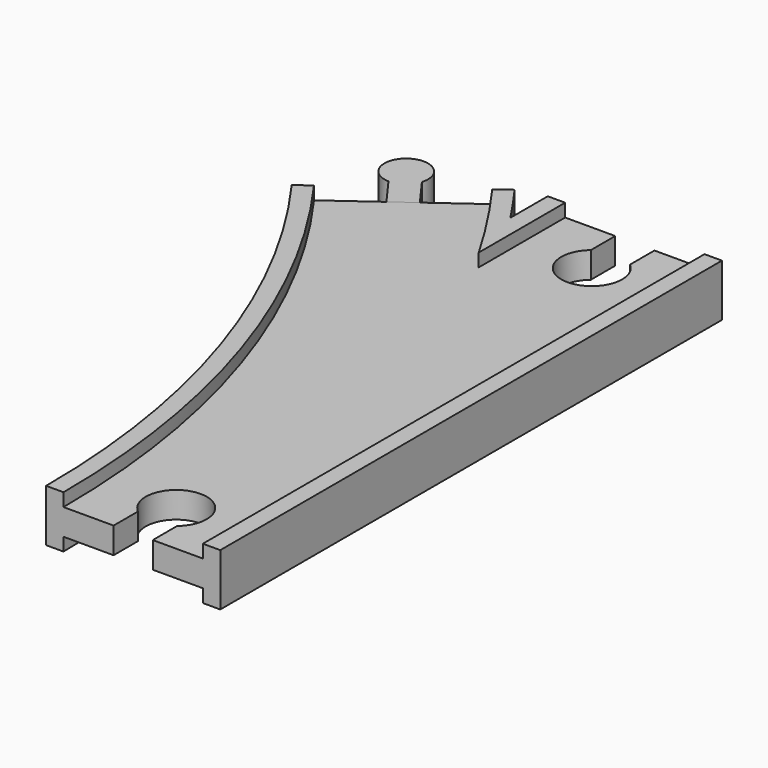
from build123d import *

# Parameters (mm, degrees)
SKETCH013_W          = 32
SKETCH013_H          = 3
POCKET_DEPTH         = 6.001
POCKET_DEPTH_BACK    = -6.001
POCKET001_DEPTH      = 6.001
POCKET001_DEPTH_BACK = -6.001
PAD002_DEPTH         = 3


with BuildPart() as body:
    # AdditivePipe: sweep along a path in Sketch002
    with BuildLine(Plane.XY) as additivepipe_path:
        ThreePointArc((0, 0), (-10.865453, 68.601773), (-42.398227, 130.488326))
    # Sketch → AdditivePipe (sweep)
    with BuildSketch(Plane.XZ):
        Polygon((-20, 6), (-20, -6), (-16, -6), (-16, -3), (-9, -3), (9, -3), (16, -3), (16, -6), (20, -6), (20, 6), (16, 6), (16, 3), (9, 3), (-9, 3), (-16, 3), (-16, 6), align=None)
    sweep(path=additivepipe_path.line)

    # AdditivePipe001: sweep along a path in Sketch001
    with BuildLine(Plane.XY) as additivepipe001_path:
        Line((0, 0), (0, 144))
    # Sketch → AdditivePipe001 (sweep)
    with BuildSketch(Plane.XZ):
        Polygon((-20, 6), (-20, -6), (-16, -6), (-16, -3), (-9, -3), (9, -3), (16, -3), (16, -6), (20, -6), (20, 6), (16, 6), (16, 3), (9, 3), (-9, 3), (-16, 3), (-16, 6), align=None)
    sweep(path=additivepipe001_path.line)

    # SubtractivePipe: sweep along a path in Sketch002
    with BuildLine(Plane.XY) as subtractivepipe_path:
        ThreePointArc((0, 0), (-10.865453, 68.601773), (-42.398227, 130.488326))
    # Sketch013 (on Face1 of AdditivePipe001) → SubtractivePipe (sweep, cut)
    with BuildSketch(Plane.XZ):
        with Locations((0, 4.5)):
            Rectangle(SKETCH013_W, SKETCH013_H)
    subtractivepipe = sweep(path=subtractivepipe_path.line, mode=Mode.SUBTRACT)

    # SubtractivePipe001: sweep along a path in Sketch001
    with BuildLine(Plane.XY) as subtractivepipe001_path:
        Line((0, 0), (0, 144))
    # Sketch013 (on Face1 of AdditivePipe001) → SubtractivePipe001 (sweep, cut)
    with BuildSketch(Plane.XZ):
        with Locations((0, 4.5)):
            Rectangle(SKETCH013_W, SKETCH013_H)
    subtractivepipe001 = sweep(path=subtractivepipe001_path.line, mode=Mode.SUBTRACT)

    # Mirrored: SubtractivePipe across XY
    add(subtractivepipe.mirror(Plane.XY), mode=Mode.SUBTRACT)

    # Mirrored001: SubtractivePipe001 across XY
    add(subtractivepipe001.mirror(Plane.XY), mode=Mode.SUBTRACT)

    # Sketch014 → Pocket (cut, two sides)
    with BuildSketch(Plane.XY) as pocket_sk:
        with BuildLine():
            Line((-4.5, 0), (4.5, 0))
            Line((4.5, 0), (4.5, 7))
            ThreePointArc((4.5, 7), (0, 19.361903), (-4.5, 7))
            Line((-4.5, 0), (-4.5, 7))
        make_face()
    extrude(amount=-POCKET_DEPTH, mode=Mode.SUBTRACT)
    extrude(pocket_sk.sketch, amount=-POCKET_DEPTH_BACK, mode=Mode.SUBTRACT)

    # Sketch016 → Pocket001 (cut, two sides)
    with BuildSketch(Plane.XY) as pocket001_sk:
        with BuildLine():
            Line((-4.5, 144), (4.5, 144))
            Line((4.5, 144), (4.5, 137))
            ThreePointArc((-4.5, 137), (0, 124.638097), (4.5, 137))
            Line((-4.5, 144), (-4.5, 137))
        make_face()
    extrude(amount=-POCKET001_DEPTH, mode=Mode.SUBTRACT)
    extrude(pocket001_sk.sketch, amount=-POCKET001_DEPTH_BACK, mode=Mode.SUBTRACT)


with BuildPart() as body003:
    # Sketch012 → Pad002 (new body, symmetric)
    with BuildSketch(Plane.XY):
        with BuildLine():
            Line((-44.825278, 128.72497), (-39.971176, 132.251682))
            Line((-39.971176, 132.251682), (-44.673458, 138.723818))
            ThreePointArc((-44.673458, 138.723818), (-52.390577, 144.241615), (-49.52756, 135.197106))
            Line((-44.825278, 128.72497), (-49.52756, 135.197106))
        make_face()
    extrude(amount=PAD002_DEPTH, both=True)


solid = Compound([body.part, body003.part])
